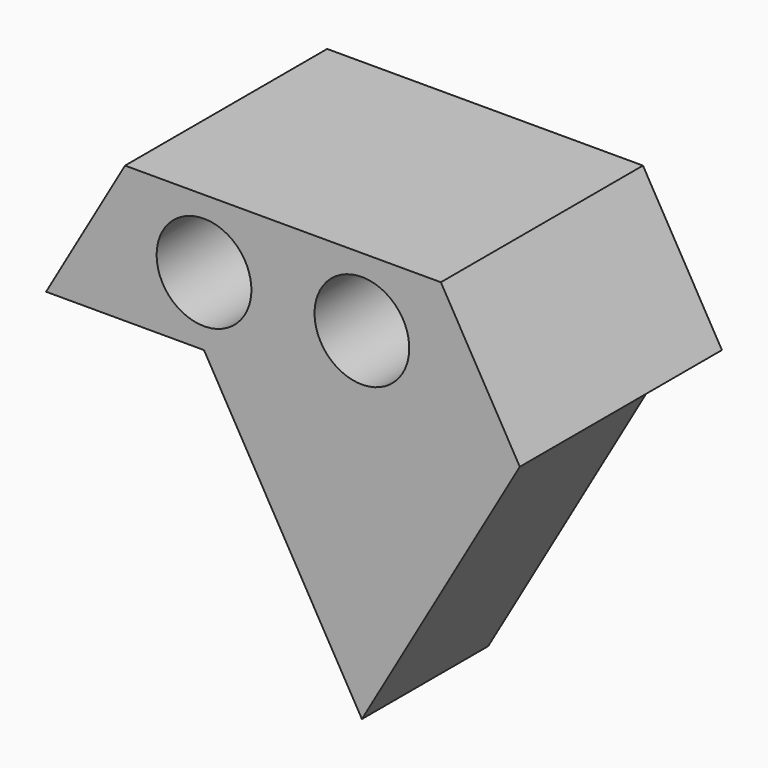
from build123d import *

# Parameters (mm, degrees)
F1_DEPTH = 25
F2_DEPTH = 40
F3_D     = 15
F4_D     = 15


with BuildPart() as f1:
    # F0 (on Front) → F1 (new body)
    with BuildSketch(Plane.XZ):
        Polygon((-77.238509, -21.429978), (-52.238509, -64.731248), (-27.238509, -21.429978), (-52.238509, -21.429978), align=None)
    extrude(amount=-F1_DEPTH)

    # F0 (on Front) → F2 (join)
    with BuildSketch(Plane.XZ):
        Polygon((-102.238509, -21.429978), (-77.238509, -21.429978), (-52.238509, -21.429978), (-27.238509, -21.429978), (-39.738509, 0.220657), (-52.238509, 0.220657), (-89.738509, 0.220657), align=None)
    extrude(amount=-F2_DEPTH)

    # F3 (through all)
    with Locations(Plane.XZ):
        with Locations((-52.238509, -10.60466)):
            Hole(F3_D / 2)

    # F4 (through all)
    with Locations(Plane.XZ):
        with Locations((-77.238509, -10.60466)):
            Hole(F4_D / 2)


solid = f1.part
